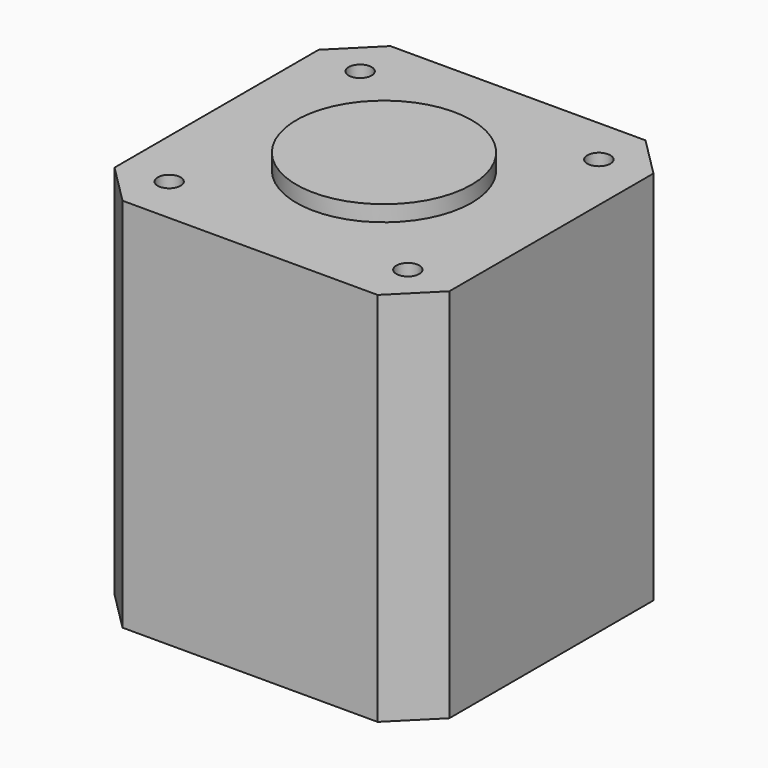
from build123d import *

# Parameters (mm, degrees)
F0_W     = 42
F0_H     = 42
F1_DEPTH = 47.15
F2_SIZE  = 5
F3_R     = 1.44
F4_DEPTH = 47.15
F5_R     = 10.99
F6_DEPTH = 2


with BuildPart() as f1:
    # F0 (on Top) → F1 (new body)
    with BuildSketch(Plane.XY):
        Rectangle(F0_W, F0_H)
    extrude(amount=F1_DEPTH)

    # F2
    f2_edges = [f1.edges().sort_by_distance(p)[0] for p in [
        (-21, 21, 23.575),
        (-21, -21, 23.575),
        (21, -21, 23.575),
        (21, 21, 23.575),
    ]]
    chamfer(f2_edges, length=F2_SIZE)

    # F3 (on face) → F4 (cut, through all)
    with BuildSketch(Plane.XY.offset(47.15)):
        with Locations((14.97, 14.973074)):
            Circle(F3_R)
        with Locations((14.97, -14.973074)):
            Circle(F3_R)
        with Locations((-14.97, -14.973074)):
            Circle(F3_R)
        with Locations((-14.97, 14.973074)):
            Circle(F3_R)
    extrude(amount=-F4_DEPTH, mode=Mode.SUBTRACT)

    # F5 (on face) → F6 (join)
    with BuildSketch(Plane.XY.offset(47.15)):
        Circle(F5_R)
    extrude(amount=F6_DEPTH)


solid = f1.part
